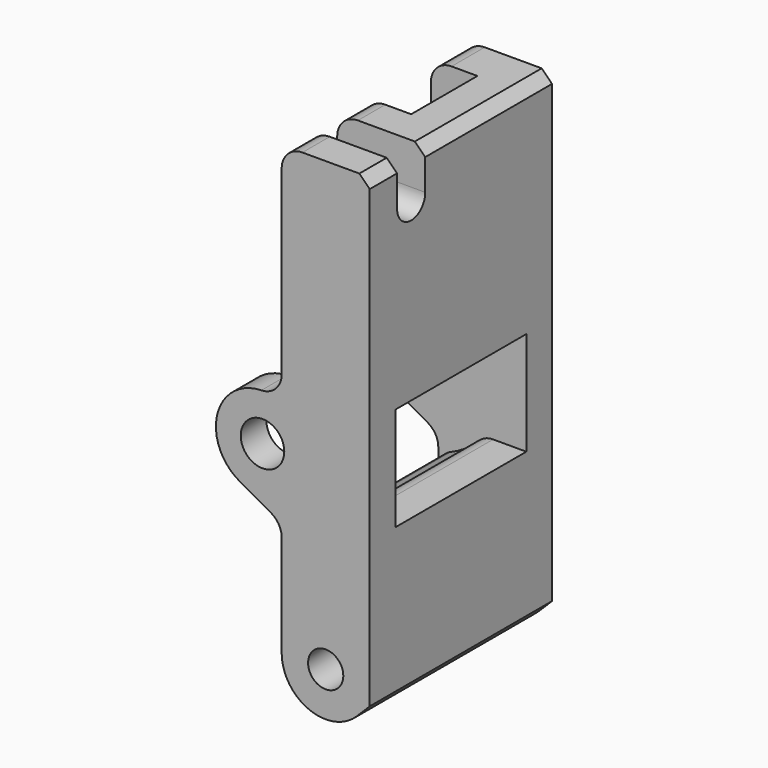
from build123d import *

# Parameters (mm, degrees)
SKETCH013_R     = 2.1
PAD003_DEPTH    = 22
POCKET005_START = -3.1
POCKET005_DEPTH = 15.8
SKETCH017_R     = 1.7
HOLE003_DEPTH   = 25
POCKET007_START = -10
POCKET007_DEPTH = 8
FILLET026_R     = 2
FILLET027_R     = 2
FILLET028_R     = 2
POCKET026_DEPTH = 10
CHAMFER013_SIZE = 1


with BuildPart() as part:
    # Sketch013 → Pad003 (new body)
    with BuildSketch(Plane.XZ):
        with BuildLine():
            Line((14.55, 4.5), (14.55, 26))
            Line((14.55, 26), (23.05, 26))
            Line((23.05, 26), (23.05, -17.2))
            Line((23.05, -18.9604076401), (23.05, -17.2))
            Line((23.05, -18.9604076401), (21.80520382, -20.20520382))
            ThreePointArc((14.55, -17.2), (17.1735954124, -21.1264880132), (21.80520382, -20.20520382))
            Line((14.55, -17.2), (14.55, -6.2))
            Line((10.4965363624, -3.9236141499), (14.55, -6.2))
            ThreePointArc((12.7, 4.5), (8.3464805229, 1.1388011954), (10.4965363624, -3.9236141499))
            Line((14.55, 4.5), (12.7, 4.5))
        make_face()
        with Locations((12.7, 0)):
            Circle(SKETCH013_R, mode=Mode.SUBTRACT)
    extrude(amount=-PAD003_DEPTH)

    # Sketch015 (on Face11 of Pad003) → Pocket005 (cut)
    with BuildSketch(Plane(origin=(0, 22, 0), x_dir=(1, 0, 0), z_dir=(0, 1, 0)).offset(POCKET005_START)):
        with BuildLine():
            ThreePointArc((18.9449979984, 5), (4.7, 0), (18.9449979984, -5))
            Line((18.9449979984, -5), (23.05, -5))
            Line((23.05, 5), (23.05, -5))
            Line((18.9449979984, 5), (23.05, 5))
        make_face()
    extrude(amount=-POCKET005_DEPTH, mode=Mode.SUBTRACT)

    # Sketch017 → Hole003 (cut)
    with BuildSketch(Plane.XZ):
        with Locations((18.8, -17.2)):
            Circle(SKETCH017_R)
    extrude(amount=-HOLE003_DEPTH, mode=Mode.SUBTRACT)

    # Sketch018 (on Face2 of Hole003) → Pocket007 (cut)
    with BuildSketch(Plane.XZ.offset(POCKET007_START)):
        Polygon((19.05, 26), (14.55, 10.5), (14.55, 26), align=None)
    extrude(amount=-POCKET007_DEPTH, mode=Mode.SUBTRACT)

    # Fillet026
    fillet026_edges = [part.edges().sort_by_distance(p)[0] for p in [
        (14.55, 5, 26),
        (14.55, 20, 26),
    ]]
    fillet(fillet026_edges, radius=FILLET026_R)

    # Fillet027
    fillet027_edges = [part.edges().sort_by_distance(p)[0] for p in [
        (14.55, 11, -7.783155),
        (14.55, 11, 7.783155),
        (18.944998, 11, -5),
        (18.944998, 11, 5),
    ]]
    fillet(fillet027_edges, radius=FILLET027_R)

    # Fillet028
    fillet028_edges = [part.edges().sort_by_distance(p)[0] for p in [
        (14.55, 20.45, -6.2),
        (14.55, 1.55, -6.2),
        (14.55, 1.55, 4.5),
        (14.55, 20.45, 4.5),
    ]]
    fillet(fillet028_edges, radius=FILLET028_R)

    # Sketch051 (on Face22 of Fillet028) → Pocket026 (cut)
    with BuildSketch(Plane(origin=(23.05, 0, 0), x_dir=(0, 0, 1), z_dir=(1, 0, 0))):
        with BuildLine():
            ThreePointArc((22, -3.3), (20.3, -5), (22, -6.7))
            Line((22, -6.7), (26, -6.7))
            Line((26, -3.3), (26, -6.7))
            Line((22, -3.3), (26, -3.3))
        make_face()
    extrude(amount=-POCKET026_DEPTH, mode=Mode.SUBTRACT)

    # Chamfer013
    chamfer013_edges = [part.edges().sort_by_distance(p)[0] for p in [
        (23.05, 1.65, 26),
        (23.05, 14.35, 26),
    ]]
    chamfer(chamfer013_edges, length=CHAMFER013_SIZE)


solid = part.part
